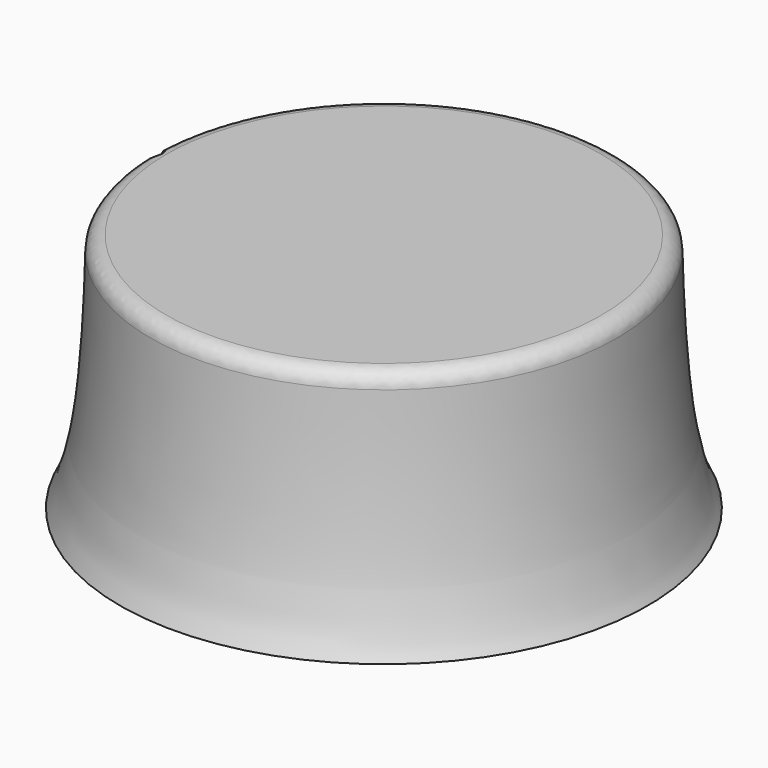
from build123d import *

# Parameters (mm, degrees)
PAD_DEPTH             = 8
SKETCH003_W           = 5.5
SKETCH003_H           = 1
POCKET_DEPTH          = 8
FILLET001_R           = 1
PAD001_DEPTH          = 0.4
POLARPATTERN_COUNT    = 4
POLARPATTERN_ANGLE    = 120
POLARPATTERN001_COUNT = 4
POLARPATTERN001_ANGLE = 120
PAD002_DEPTH          = 0.8


with BuildPart() as part:
    # Sketch → Revolution001 (revolve)
    with BuildSketch(Plane.XZ):
        with BuildLine():
            Line((-15, 17), (0, 17))
            Line((0, 17), (0, 15.8))
            Line((0, 15.8), (-13.4, 15.8))
            add(Edge.make_bspline(
                [(-13.4, 15.8), (-13.6, 4.4), (-15.8, 1.5)],
                knots=[0, 0, 0, 1, 1, 1], degree=2))
            Line((-15.8, 1.5), (-17, 1.5))
            add(Edge.make_bspline(
                [(-15, 17), (-15.191235, 4.567246), (-17, 1.5)],
                knots=[0, 0, 0, 1, 1, 1], degree=2))
        make_face()
    revolve(axis=Axis((0, 0, 0), (0, 0, 1)))

    # Sketch002 (on Face2 of Revolution001) → Pad (new body)
    with BuildSketch(Plane(origin=(0, 0, 15.8), x_dir=(1, 0, 0), z_dir=(0, 0, -1))):
        with BuildLine():
            Line((-2.5, 3.122499), (-2.5, -3.122499))
            ThreePointArc((-2.5, -3.122499), (4, 0), (-2.5, 3.122499))
        make_face()
        with BuildLine():
            Line((-1.5, 2.598076), (-1.5, -2.598076))
            ThreePointArc((-1.5, -2.598076), (3, 0), (-1.5, 2.598076))
        make_face(mode=Mode.SUBTRACT)
    extrude(amount=PAD_DEPTH)

    # Sketch003 (on Face8 of Pad) → Pocket (cut)
    with BuildSketch(Plane(origin=(0, 0, 7.8), x_dir=(1, 0, 0), z_dir=(0, 0, -1))):
        Rectangle(SKETCH003_W, SKETCH003_H)
    extrude(amount=-POCKET_DEPTH, mode=Mode.SUBTRACT)

    # Fillet001
    fillet001_edges = [part.edges().sort_by_distance(p)[0] for p in [
        (15, 0, 17),
    ]]
    fillet(fillet001_edges, radius=FILLET001_R)

    # Sketch004 → Pad001 (join, symmetric)
    with BuildSketch(Plane.XZ):
        Polygon((3.5, 16.2), (14.1, 16.2), (15.3, 4.1), (3.5, 8.1), align=None)
    pad001 = extrude(amount=PAD001_DEPTH, both=True)

    # PolarPattern: Pad001 ×4 about axis
    polarpattern_axis = Axis((0, 0, 0), (0, 0, 1))
    for i in range(1, POLARPATTERN_COUNT):
        add(pad001.rotate(polarpattern_axis, i * POLARPATTERN_ANGLE / (POLARPATTERN_COUNT - 1)))

    # PolarPattern001: Pad001 ×4 about axis
    polarpattern001_axis = Axis((0, 0, 0), (0, 0, -1))
    for i in range(1, POLARPATTERN001_COUNT):
        add(pad001.rotate(polarpattern001_axis, i * POLARPATTERN001_ANGLE / (POLARPATTERN001_COUNT - 1)))

    # Sketch005 (on DatumPlane) → Pad002 (join)
    with BuildSketch(Plane(origin=(0, -1, 0), x_dir=(0.951057, 0.309017, 0), z_dir=(0.309017, -0.951057, 0))):
        Polygon((-2.2, 16.2), (-14.1, 16.2), (-15.3, 4.1), (-2.2, 8.1), align=None)
    pad002 = extrude(amount=-PAD002_DEPTH)

    # Mirrored: Pad002 across XZ
    add(pad002.mirror(Plane.XZ))

    # Sketch006 (on DatumPlane) → Groove (revolve, cut)
    with BuildSketch(Plane.XZ):
        with BuildLine():
            Line((-14.256, 21.131777), (-16.27368, 4.256502))
            add(Edge.make_bspline(
                [(-14.256, 21.131777), (-14.019386, 16.117344), (-14.892639, 6.241907), (-16.27368, 4.256502)],
                knots=[0, 0, 0, 0, 1, 1, 1, 1], degree=3))
        make_face()
    revolve(axis=Axis((-17, 0, 0), (0.121265, 0.000738, 0.99262)), mode=Mode.SUBTRACT)


solid = part.part
